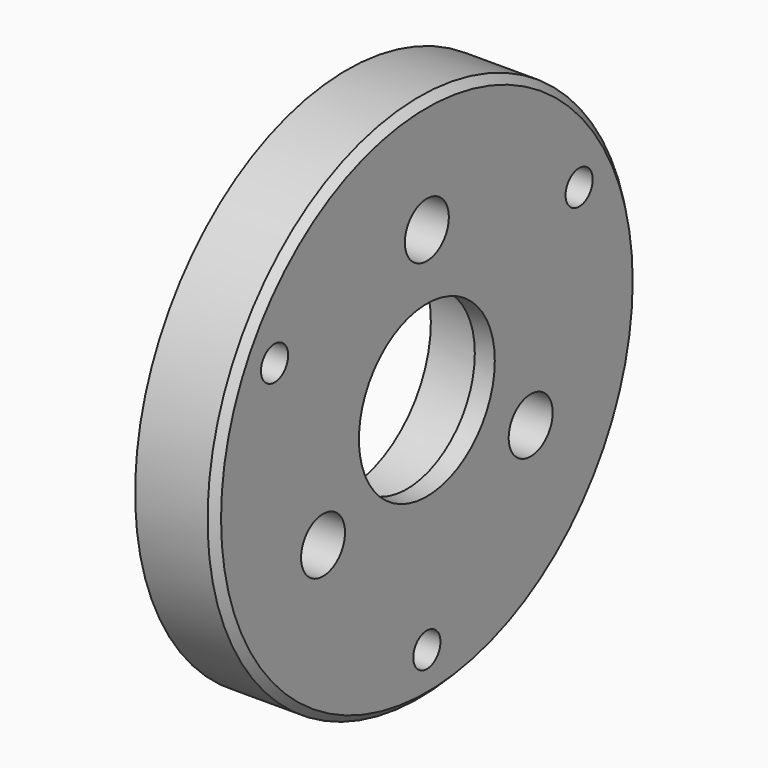
from build123d import *

# Parameters (mm, degrees)
SKETCH046_R         = 26.5
SKETCH046_R_2       = 8.5
SKETCH046_R_3       = 1.65
PAD029_DEPTH        = 8
SKETCH048_R         = 10.5
POCKET014_DEPTH     = 6
HOLE003_D           = 3.4
HOLE003_CBORE_D     = 5.5
HOLE003_CBORE_DEPTH = 4
HOLE004_D           = 3.4
HOLE004_CBORE_D     = 5.5
HOLE004_CBORE_DEPTH = 4
CHAMFER016_SIZE     = 0.75


with BuildPart() as part:
    # Sketch046 → Pad029 (new body)
    with BuildSketch(Plane.YZ.offset(69)):
        with Locations((-10, -6)):
            Circle(SKETCH046_R)
        with Locations((-10, -6)):
            Circle(SKETCH046_R_2, mode=Mode.SUBTRACT)
        with Locations((-10, 9)):
            Circle(SKETCH046_R_3, mode=Mode.SUBTRACT)
        with Locations((2.990381, -13.5)):
            Circle(SKETCH046_R_3, mode=Mode.SUBTRACT)
        with Locations((-22.990381, -13.5)):
            Circle(SKETCH046_R_3, mode=Mode.SUBTRACT)
    extrude(amount=PAD029_DEPTH)

    # Sketch048 → Pocket014 (cut)
    with BuildSketch(Plane.YZ.offset(69)):
        with Locations((-10, -6)):
            Circle(SKETCH048_R)
    extrude(amount=POCKET014_DEPTH, mode=Mode.SUBTRACT)

    # Hole003 (through all)
    with Locations(Plane(origin=(69, 0, 0), x_dir=(0, 1, 0), z_dir=(-1, 0, 0))):
        with Locations((-29.052559, -5), (9.052559, -5), (-10, 28)):
            CounterBoreHole(HOLE003_D / 2, HOLE003_CBORE_D / 2, HOLE003_CBORE_DEPTH)

    # Hole004 (through all)
    with Locations(Plane.YZ.offset(77)):
        with Locations((-22.990381, -13.5), (-10, 9), (2.990381, -13.5)):
            CounterBoreHole(HOLE004_D / 2, HOLE004_CBORE_D / 2, HOLE004_CBORE_DEPTH)

    # Chamfer016
    chamfer016_edges = [part.edges().sort_by_distance(p)[0] for p in [
        (77, -36.5, -6),
    ]]
    chamfer(chamfer016_edges, length=CHAMFER016_SIZE)


with BuildPart() as part_1:
    # Body011 placement: moved
    add(part.part.moved(Location((2, -5.5, 6.5))))


solid = part_1.part
